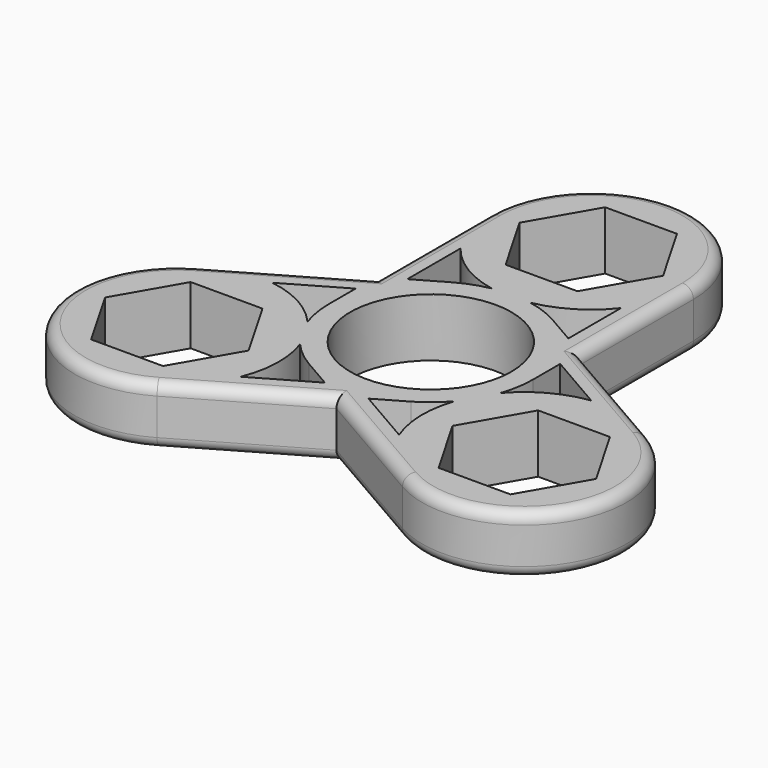
from build123d import *

# Parameters (mm, degrees)
F0_R     = 11.05
F1_DEPTH = 4
F2_COUNT = 3
F3_R     = 1.5


with BuildPart() as f1:
    # F0 (on Top) → F1 (new body, symmetric)
    with BuildSketch(Plane.XY):
        with BuildLine():
            Line((-14, 27.5), (-14, 0))
            ThreePointArc((-14, 0), (0, -14), (14, 0))
            Line((14, 0), (14, 27.5))
            ThreePointArc((14, 27.5), (0, 41.5), (-14, 27.5))
        make_face()
        Circle(F0_R, mode=Mode.SUBTRACT)
        with BuildLine():
            Line((-11.05, 8.5963655111), (-11.05, 18.9036344889))
            ThreePointArc((-11.05, 18.9036344889), (-7.3111120124, 15.5606683126), (-2.6339134382, 13.75))
            ThreePointArc((-2.6339134382, 13.75), (-7.3111120124, 11.9393316874), (-11.05, 8.5963655111))
        make_face(mode=Mode.SUBTRACT)
        Polygon((-9.8438220897, 27.5), (-4.9219110448, 36.025), (4.9219110448, 36.025), (9.8438220897, 27.5), (4.9219110448, 18.975), (-4.9219110448, 18.975), align=None, mode=Mode.SUBTRACT)
        with BuildLine():
            Line((11, 18.8397459622), (11, 8.6602540378))
            ThreePointArc((11, 8.6602540378), (7.2764879853, 11.9604649826), (2.6339134382, 13.75))
            ThreePointArc((2.6339134382, 13.75), (7.2764879853, 15.5395350174), (11, 18.8397459622))
        make_face(mode=Mode.SUBTRACT)
    extrude(amount=F1_DEPTH, both=True)

    # F2: F1 ×3 about axis
    f2_axis = Axis((0, 0, 4), (0, 0, 1))


with BuildPart() as f1_1:
    add(f1.part)
    for i in range(1, F2_COUNT):
        add(f1.part.rotate(f2_axis, i * 360 / F2_COUNT))

    # F3
    f3_edges = [f1_1.edges().sort_by_distance(p)[0] for p in [
        (14, 27.5, 0),
        (0, 41.5, -4),
        (-14, 27.5, 0),
        (0, 41.5, 4),
        (16.815699, -25.874356, 0),
        (35.940054, -20.75, -4),
        (30.815699, -1.625644, 0),
        (35.940054, -20.75, 4),
        (-30.815699, -1.625644, 0),
        (-35.940054, -20.75, -4),
        (-16.815699, -25.874356, 0),
        (-35.940054, -20.75, 4),
    ]]
    fillet(f3_edges, radius=F3_R)


solid = f1_1.part
